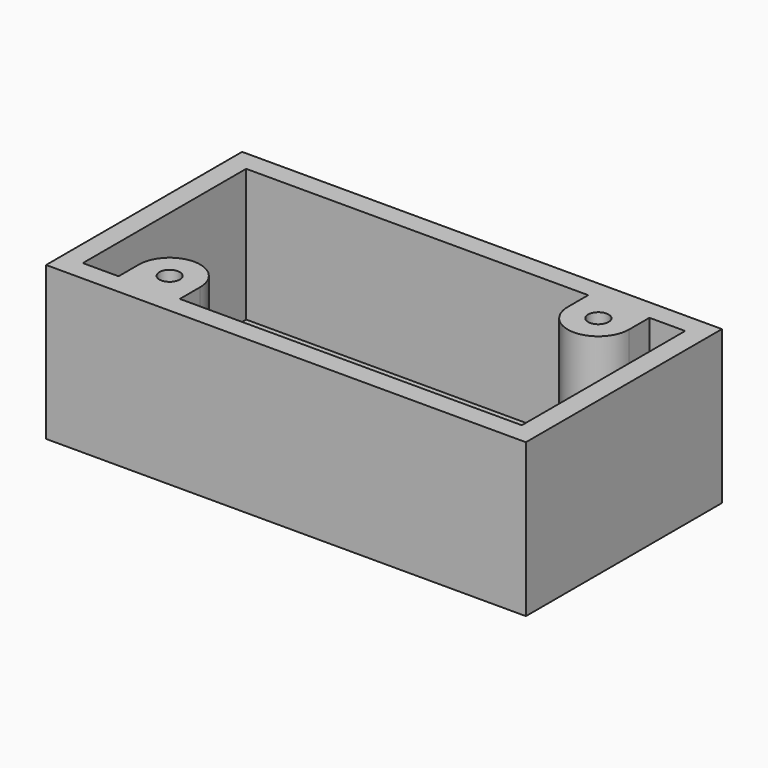
from build123d import *

# Parameters (mm, degrees)
F0_W     = 47
F0_H     = 24
F1_DEPTH = 15
F3_DEPTH = 13
F4_R     = 1
F5_DEPTH = 10


with BuildPart() as f1:
    # F0 (on Top) → F1 (new body)
    with BuildSketch(Plane.XY):
        Rectangle(F0_W, F0_H)
    extrude(amount=F1_DEPTH)

    # F2 (on face) → F3 (cut)
    with BuildSketch(Plane.XY.offset(15)):
        with BuildLine():
            Line((21.5, 10), (18, 10))
            Line((18, 10), (18, 7.5))
            ThreePointArc((18, 7.5), (15, 4.5), (12, 7.5))
            Line((12, 7.5), (12, 10))
            Line((12, 10), (-21.5, 10))
            Line((-21.5, 10), (-21.5, -10))
            Line((-21.5, -10), (-18, -10))
            Line((-18, -10), (-18, -7.5))
            ThreePointArc((-18, -7.5), (-15, -4.5), (-12, -7.5))
            Line((-12, -7.5), (-12, -10))
            Line((-12, -10), (21.5, -10))
            Line((21.5, -10), (21.5, 10))
        make_face()
    extrude(amount=-F3_DEPTH, mode=Mode.SUBTRACT)

    # F4 (on face) → F5 (cut)
    with BuildSketch(Plane.XY.offset(15)):
        with Locations((15, 7.5)):
            Circle(F4_R)
        with Locations((-15, -7.5)):
            Circle(F4_R)
    extrude(amount=-F5_DEPTH, mode=Mode.SUBTRACT)


solid = f1.part
